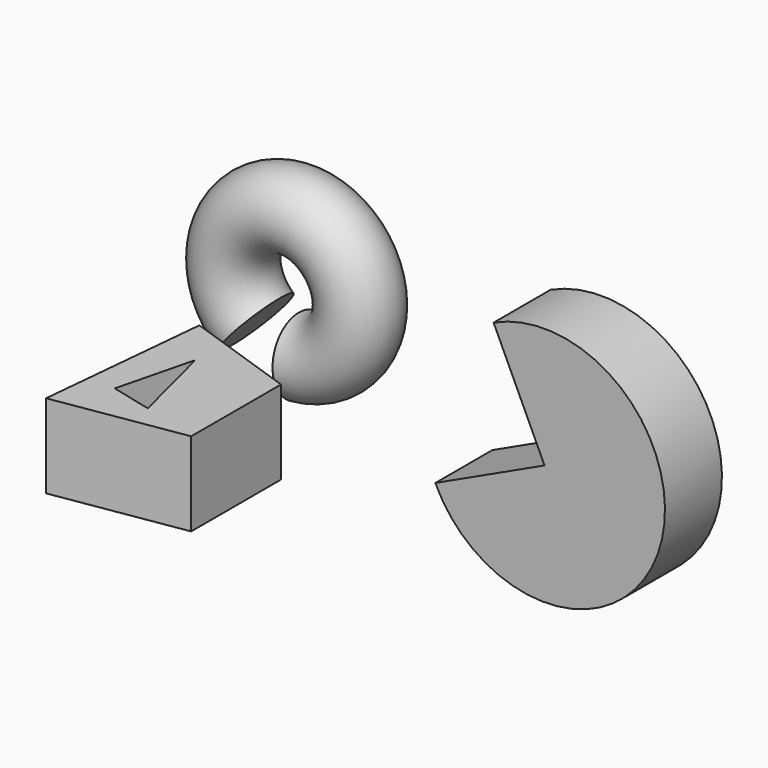
from build123d import *

# Parameters (mm, degrees)
F0_R          = 11.1797222355
F1_ANGLE_BACK = 85
F1_ANGLE      = 315
F2_DEPTH      = 25.4
F0_W          = 36.5379918367
F0_H          = 21.5906333178
F3_ANGLE_BACK = 155
F3_ANGLE      = 270


with BuildPart() as f1:
    # F0 (on Top) → F1 (revolve)
    with BuildSketch(Plane.XY, mode=Mode.PRIVATE) as f1_sk:
        with Locations((-62.280677259, 52.5233596563)):
            Circle(F0_R)
    revolve(f1_sk.sketch.rotate(Axis((-81.4920887351, 45.5358419567, 0), (0, -1, 0)), -F1_ANGLE_BACK), axis=Axis((-81.4920887351, 45.5358419567, 0), (0, -1, 0)), revolution_arc=F1_ANGLE)


with BuildPart() as f2:
    # F0 (on Top) → F2 (new body)
    with BuildSketch(Plane.XY):
        Polygon((-20.9524314851, -29.0797241032), (-54.9991987646, -17.4539964646), (-59.9816553295, -69.3545565009), (-20.9524314851, -63.1264895201), align=None)
        Polygon((-50.4319518805, -55.2375987172), (-44.6190871298, -31.9861508906), (-37.9269696142, -58.3638457864), align=None, mode=Mode.SUBTRACT)
    extrude(amount=F2_DEPTH)


with BuildPart() as f3:
    # F0 (on Top) → F3 (revolve)
    with BuildSketch(Plane.XY, mode=Mode.PRIVATE) as f3_sk:
        with Locations((41.5204456076, 26.3654785231)):
            Rectangle(F0_W, F0_H)
    revolve(f3_sk.sketch.rotate(Axis((23.2514496893, 26.3654785231, 0), (0, -1, 0)), -F3_ANGLE_BACK), axis=Axis((23.2514496893, 26.3654785231, 0), (0, -1, 0)), revolution_arc=F3_ANGLE)


solid = Compound([f1.part, f2.part, f3.part])
